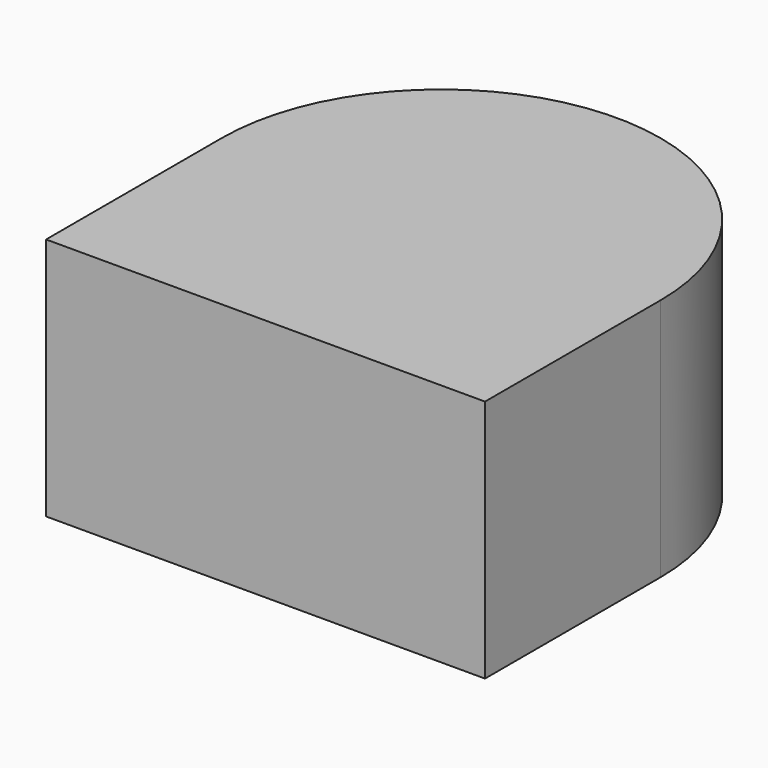
from build123d import *

# Parameters (mm, degrees)
F0_R     = 22.5
F1_DEPTH = 25
F2_R     = 19.5
F3_DEPTH = 20
F5_DEPTH = 25


with BuildPart() as f1:
    # F0 (on Top) → F1 (new body)
    with BuildSketch(Plane.XY):
        Circle(F0_R)
    extrude(amount=F1_DEPTH)

    # F2 (on Top) → F3 (cut)
    with BuildSketch(Plane.XY):
        Circle(F2_R)
    extrude(amount=F3_DEPTH, mode=Mode.SUBTRACT)

    # F4 (on face) → F5 (join)
    with BuildSketch(Plane(origin=(0, 0, 0), x_dir=(1, 0, 0), z_dir=(0, 0, -1))):
        with BuildLine():
            Line((-22.5, 22.5), (-22.5, 2.46e-08))
            ThreePointArc((-22.5, 2.46e-08), (-15.9099025593, 15.9099025941), (2.47e-08, 22.5))
            Line((2.47e-08, 22.5), (-22.5, 22.5))
        make_face()
        with BuildLine():
            ThreePointArc((2.47e-08, 22.5), (15.9099025854, 15.909902568), (22.5, 0))
            Line((22.5, 0), (22.5, 22.5))
            Line((22.5, 22.5), (2.47e-08, 22.5))
        make_face()
    extrude(amount=-F5_DEPTH)


solid = f1.part
